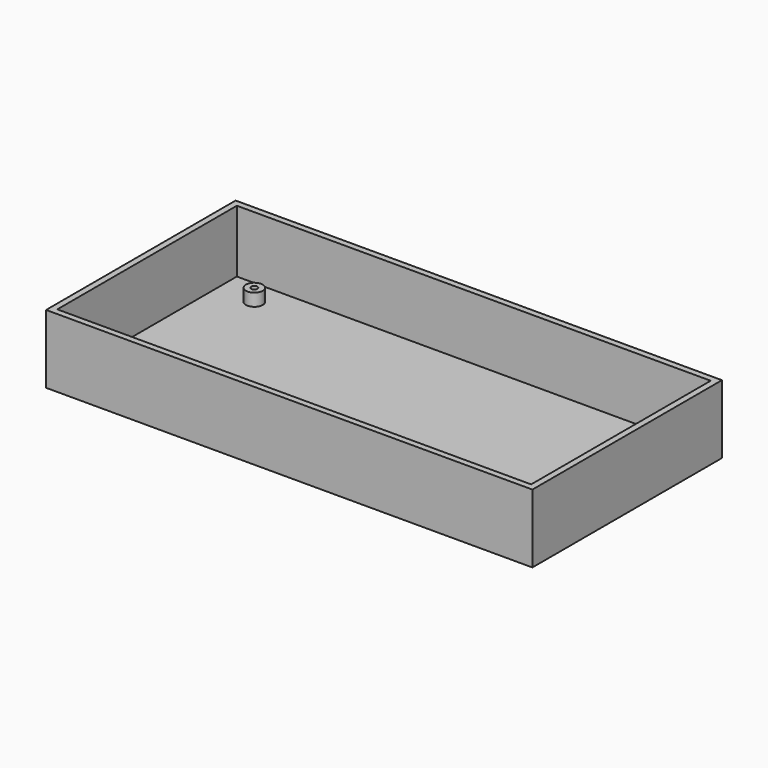
from build123d import *

# Parameters (mm, degrees)
SKETCH001_W      = 76
SKETCH001_H      = 36
EXTRUDE_DEPTH    = 10
THICKNESS_T      = 1
SKETCH003_R      = 1.35
EXTRUDE001_DEPTH = 2
SKETCH004_R      = 0.5
POCKET_DEPTH     = 2


with BuildPart() as thickness:
    # Sketch001 → Extrude (new body)
    with BuildSketch(Plane.XY):
        with Locations((38, 18)):
            Rectangle(SKETCH001_W, SKETCH001_H)
    extrude(amount=EXTRUDE_DEPTH)

    # Thickness
    thickness_openings = [thickness.faces().sort_by_distance(p)[0] for p in [
        (38, 18, 10),
    ]]
    offset(amount=THICKNESS_T, openings=thickness_openings, kind=Kind.INTERSECTION)


with BuildPart() as pocket:
    # Sketch003 → Extrude001 (new body)
    with BuildSketch(Plane.XY):
        with Locations((6, 5)):
            Circle(SKETCH003_R)
    extrude(amount=EXTRUDE001_DEPTH)

    # Sketch004 → Pocket (cut)
    with BuildSketch(Plane.XY.offset(2)):
        with Locations((6, 5)):
            Circle(SKETCH004_R)
    extrude(amount=-POCKET_DEPTH, mode=Mode.SUBTRACT)


with BuildPart() as clone_of_pocket:
    # Clone base: copy of Pocket
    add(pocket.part)


with BuildPart() as clone_of_pocket_1:
    # Clone placement: moved
    add(clone_of_pocket.part.moved(Location((0, 27, 0))))


solid = Compound([thickness.part, pocket.part, clone_of_pocket_1.part])
